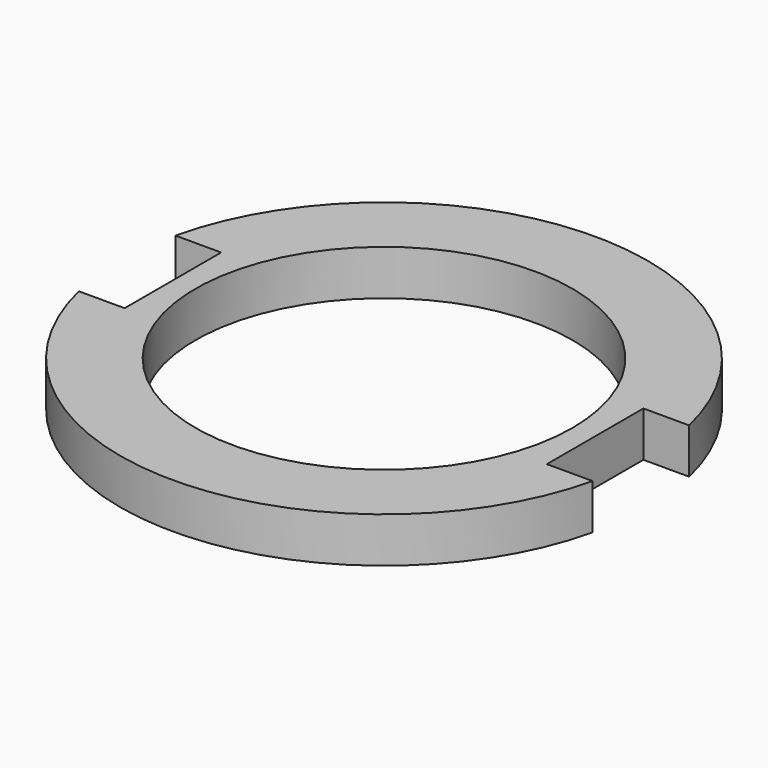
from build123d import *

# Parameters (mm, degrees)
F0_R     = 12.5
F1_DEPTH = 3


with BuildPart() as f1:
    # F0 (on Top) → F1 (new body)
    with BuildSketch(Plane.XY):
        with BuildLine():
            Line((-14, -4), (-17.036725, -4))
            ThreePointArc((-17.036725, -4), (0, -17.5), (17.036725, -4))
            Line((17.036725, -4), (14, -4))
            Line((14, -4), (14, 4))
            Line((14, 4), (17.036725, 4))
            ThreePointArc((17.036725, 4), (0, 17.5), (-17.036725, 4))
            Line((-17.036725, 4), (-14, 4))
            Line((-14, 4), (-14, -4))
        make_face()
        Circle(F0_R, mode=Mode.SUBTRACT)
        with BuildLine():
            Line((-14, -4), (-17.036725, -4))
            ThreePointArc((-17.036725, -4), (0, -17.5), (17.036725, -4))
            Line((17.036725, -4), (14, -4))
            Line((14, -4), (14, 4))
            Line((14, 4), (17.036725, 4))
            ThreePointArc((17.036725, 4), (0, 17.5), (-17.036725, 4))
            Line((-17.036725, 4), (-14, 4))
            Line((-14, 4), (-14, -4))
        make_face()
        Circle(F0_R, mode=Mode.SUBTRACT)
    extrude(amount=F1_DEPTH)


solid = f1.part
